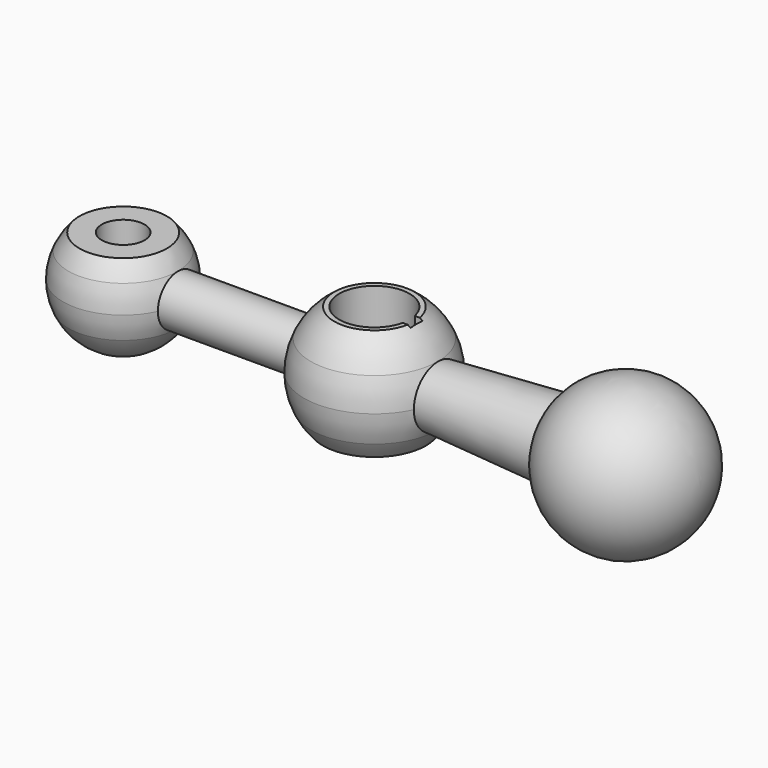
from build123d import *

# Parameters (mm, degrees)
F6_DEPTH = 15
F8_D     = 8.5


with BuildPart() as f2:
    # F0 (on Front) → F2 (revolve)
    with BuildSketch(Plane.XZ):
        with BuildLine():
            Line((-15, 0), (15, 0))
            ThreePointArc((15, 0), (3.8822856765, 14.4888873943), (-12.9903810568, 7.5))
            ThreePointArc((-12.9903810568, 7.5), (-14.4888873943, 3.8822856765), (-15, 0))
        make_face()
        with BuildLine():
            ThreePointArc((-15, 0), (-14.4888873943, 3.8822856765), (-12.9903810568, 7.5))
            Line((-12.9903810568, 7.5), (-37.3508893593, 6))
            ThreePointArc((-37.3508893593, 6), (-36.3418971125, 3.0750976432), (-36, 0))
            Line((-36, 0), (-15, 0))
        make_face()
    revolve(axis=Axis((-10.5, 0, 0), (-1, 0, 0)))

    # F0 (on Front) → F3 (revolve)
    with BuildSketch(Plane.XZ):
        with BuildLine():
            ThreePointArc((-36, 0), (-36.3418971125, 3.0750976432), (-37.3508893593, 6))
            ThreePointArc((-37.3508893593, 6), (-39.3230376655, 9.0555218131), (-42.0156402887, 11.5))
            Line((-42.0156402887, 11.5), (-50, 11.5))
            Line((-50, 11.5), (-50, -9.5))
            Line((-50, -9.5), (-39.7165180994, -9.5))
            ThreePointArc((-39.7165180994, -9.5), (-38.4009289093, -7.8397416943), (-37.3508893593, -6))
            ThreePointArc((-37.3508893593, -6), (-36.3418971125, -3.0750976432), (-36, 0))
        make_face()
    revolve(axis=Axis((-50, 0, 1), (0, 0, 1)))

    # F0 (on Front) → F4 (revolve)
    with BuildSketch(Plane.XZ):
        with BuildLine():
            ThreePointArc((-64, 0), (-63.7672392953, 2.542267135), (-63.0766968306, 5))
            Line((-63.0766968306, 5), (-89.0912878854, 5))
            ThreePointArc((-89.0912878854, 5), (-88.2759958765, 2.5588527336), (-88, 0))
            Line((-88, 0), (-64, 0))
        make_face()
    revolve(axis=Axis((-76, 0, 0), (1, 0, 0)))

    # F0 (on Front) → F5 (revolve)
    with BuildSketch(Plane.XZ):
        with BuildLine():
            ThreePointArc((-88, 0), (-88.2759958765, 2.5588527336), (-89.0912878854, 5))
            ThreePointArc((-89.0912878854, 5), (-90.0598209908, 6.7225621057), (-91.2979315152, 8.2628084866))
            Line((-91.2979315152, 8.2628084866), (-100, 8.2628084866))
            Line((-100, 8.2628084866), (-100, -12))
            ThreePointArc((-100, -12), (-93.5192593016, -10.0995049384), (-89.0912878854, -5))
            ThreePointArc((-89.0912878854, -5), (-88.2759958765, -2.5588527336), (-88, 0))
        make_face()
    revolve(axis=Axis((-100, 0, -1.8685957567), (0, 0, -1)))

    # F1 (on Top) → F6 (cut, symmetric)
    with BuildSketch(Plane.XY):
        with BuildLine():
            Line((-41.6, 1.5), (-43.1626028344, 1.5))
            ThreePointArc((-43.1626028344, 1.5), (-57, 0), (-43.1626028344, -1.5))
            Line((-43.1626028344, -1.5), (-41.6, -1.5))
            Line((-41.6, -1.5), (-41.6, 1.5))
        make_face()
    extrude(amount=F6_DEPTH, both=True, mode=Mode.SUBTRACT)

    # F8 (through all)
    with Locations(Plane.XY.offset(8.2628084866)):
        with Locations((-100, 0)):
            Hole(F8_D / 2)


solid = f2.part
